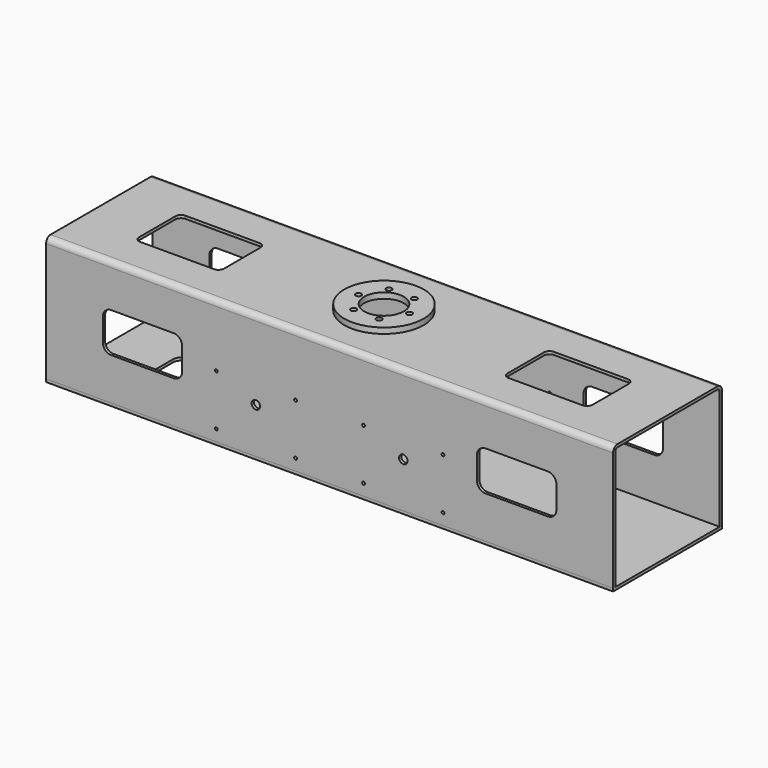
from build123d import *

# Parameters (mm, degrees)
F1_DEPTH  = 1270
F2_R      = 69.85
F3_DEPTH  = 279.401
F5_DEPTH  = 304.801
F6_R      = 9.525
F6_R_2    = 3.175
F7_DEPTH  = 304.801
F8_R      = 88.9
F8_R_2    = 6.35
F8_R_3    = 44.45
F9_DEPTH  = 12.7
F10_W     = 1270
F10_H     = 304.8
F11_DEPTH = 6.35


with BuildPart() as f1:
    # F0 (on Right) → F1 (new body)
    with BuildSketch(Plane.YZ):
        with BuildLine():
            Line((139.7, 139.7), (-139.7, 139.7))
            ThreePointArc((-139.7, 139.7), (-148.680256, 135.980256), (-152.4, 127))
            Line((-152.4, 127), (-152.4, -139.7))
            Line((-152.4, -139.7), (-146.05, -139.7))
            Line((-146.05, -139.7), (-146.05, 127))
            ThreePointArc((-146.05, 127), (-144.190128, 131.490128), (-139.7, 133.35))
            Line((-139.7, 133.35), (139.7, 133.35))
            ThreePointArc((139.7, 133.35), (144.190128, 131.490128), (146.05, 127))
            Line((146.05, 127), (146.05, -139.7))
            Line((146.05, -139.7), (152.4, -139.7))
            Line((152.4, -139.7), (152.4, 127))
            ThreePointArc((152.4, 127), (148.680256, 135.980256), (139.7, 139.7))
        make_face()
    extrude(amount=F1_DEPTH)

    # F2 (on face) → F3 (cut, through all)
    with BuildSketch(Plane.XY.offset(139.7)):
        with BuildLine():
            Line((304.8, 63.5), (139.7, 63.5))
            ThreePointArc((139.7, 63.5), (130.719744, 59.780256), (127, 50.8))
            Line((127, 50.8), (127, -50.8))
            ThreePointArc((127, -50.8), (130.719744, -59.780256), (139.7, -63.5))
            Line((139.7, -63.5), (304.8, -63.5))
            ThreePointArc((304.8, -63.5), (313.780256, -59.780256), (317.5, -50.8))
            Line((317.5, -50.8), (317.5, 50.8))
            ThreePointArc((317.5, 50.8), (313.780256, 59.780256), (304.8, 63.5))
        make_face()
        with BuildLine():
            Line((965.2, -63.5), (1130.3, -63.5))
            ThreePointArc((1130.3, -63.5), (1139.280256, -59.780256), (1143, -50.8))
            Line((1143, -50.8), (1143, 50.8))
            ThreePointArc((1143, 50.8), (1139.280256, 59.780256), (1130.3, 63.5))
            Line((1130.3, 63.5), (965.2, 63.5))
            ThreePointArc((965.2, 63.5), (956.219744, 59.780256), (952.5, 50.8))
            Line((952.5, 50.8), (952.5, -50.8))
            ThreePointArc((952.5, -50.8), (956.219744, -59.780256), (965.2, -63.5))
        make_face()
        with Locations((635, 0)):
            Circle(F2_R)
    extrude(amount=-F3_DEPTH, mode=Mode.SUBTRACT)

    # F4 (on face) → F5 (cut, through all)
    with BuildSketch(Plane.XZ.offset(152.4)):
        with BuildLine():
            Line((285.75, 43.3705), (146.05, 43.3705))
            ThreePointArc((146.05, 43.3705), (132.579616, 37.790884), (127, 24.3205))
            Line((127, 24.3205), (127, -26.4795))
            ThreePointArc((127, -26.4795), (132.579616, -39.949884), (146.05, -45.5295))
            Line((146.05, -45.5295), (285.75, -45.5295))
            ThreePointArc((285.75, -45.5295), (299.220384, -39.949884), (304.8, -26.4795))
            Line((304.8, -26.4795), (304.8, 24.3205))
            ThreePointArc((304.8, 24.3205), (299.220384, 37.790884), (285.75, 43.3705))
        make_face()
        with BuildLine():
            ThreePointArc((1143, 24.3205), (1137.420384, 37.790884), (1123.95, 43.3705))
            Line((1123.95, 43.3705), (984.25, 43.3705))
            ThreePointArc((984.25, 43.3705), (970.779616, 37.790884), (965.2, 24.3205))
            Line((965.2, 24.3205), (965.2, -26.4795))
            ThreePointArc((965.2, -26.4795), (970.779616, -39.949884), (984.25, -45.5295))
            Line((984.25, -45.5295), (1123.95, -45.5295))
            ThreePointArc((1123.95, -45.5295), (1137.420384, -39.949884), (1143, -26.4795))
            Line((1143, -26.4795), (1143, 24.3205))
        make_face()
    extrude(amount=-F5_DEPTH, mode=Mode.SUBTRACT)

    # F6 (on face) → F7 (cut, through all)
    with BuildSketch(Plane.XZ.offset(152.4)):
        with Locations((469.9, -38.1)):
            Circle(F6_R)
        with Locations((558.8, 0)):
            Circle(F6_R_2)
        with Locations((800.1, -38.1)):
            Circle(F6_R)
        with Locations((711.2, 0)):
            Circle(F6_R_2)
        with Locations((558.8, -114.3)):
            Circle(F6_R_2)
        with Locations((711.2, -114.3)):
            Circle(F6_R_2)
        with Locations((381, -114.3)):
            Circle(F6_R_2)
        with Locations((381, 0)):
            Circle(F6_R_2)
        with Locations((889, 0)):
            Circle(F6_R_2)
        with Locations((889, -114.3)):
            Circle(F6_R_2)
    extrude(amount=-F7_DEPTH, mode=Mode.SUBTRACT)


with BuildPart() as f9:
    # F8 (on face) → F9 (new body)
    with BuildSketch(Plane.XY.offset(139.7)):
        with Locations((635, 0)):
            Circle(F8_R)
        with Locations((606.425, -49.493352)):
            Circle(F8_R_2, mode=Mode.SUBTRACT)
        with Locations((663.575, -49.493352)):
            Circle(F8_R_2, mode=Mode.SUBTRACT)
        with Locations((577.85, 0)):
            Circle(F8_R_2, mode=Mode.SUBTRACT)
        with Locations((606.425, 49.493352)):
            Circle(F8_R_2, mode=Mode.SUBTRACT)
        with Locations((635, 0)):
            Circle(F8_R_3, mode=Mode.SUBTRACT)
        with Locations((692.15, 0)):
            Circle(F8_R_2, mode=Mode.SUBTRACT)
        with Locations((663.575, 49.493352)):
            Circle(F8_R_2, mode=Mode.SUBTRACT)
    extrude(amount=F9_DEPTH)


with BuildPart() as f11:
    # F10 (on face) → F11 (new body)
    with BuildSketch(Plane(origin=(0, 0, -139.7), x_dir=(1, 0, 0), z_dir=(0, 0, -1))):
        with Locations((635, 0)):
            Rectangle(F10_W, F10_H)
        with BuildLine():
            ThreePointArc((127, 44.45), (132.579616, 57.920384), (146.05, 63.5))
            Line((146.05, 63.5), (298.45, 63.5))
            ThreePointArc((298.45, 63.5), (311.920384, 57.920384), (317.5, 44.45))
            Line((317.5, 44.45), (317.5, -44.45))
            ThreePointArc((317.5, -44.45), (311.920384, -57.920384), (298.45, -63.5))
            Line((298.45, -63.5), (146.05, -63.5))
            ThreePointArc((146.05, -63.5), (132.579616, -57.920384), (127, -44.45))
            Line((127, -44.45), (127, 44.45))
        make_face(mode=Mode.SUBTRACT)
    extrude(amount=F11_DEPTH)


solid = Compound([f1.part, f9.part, f11.part])
